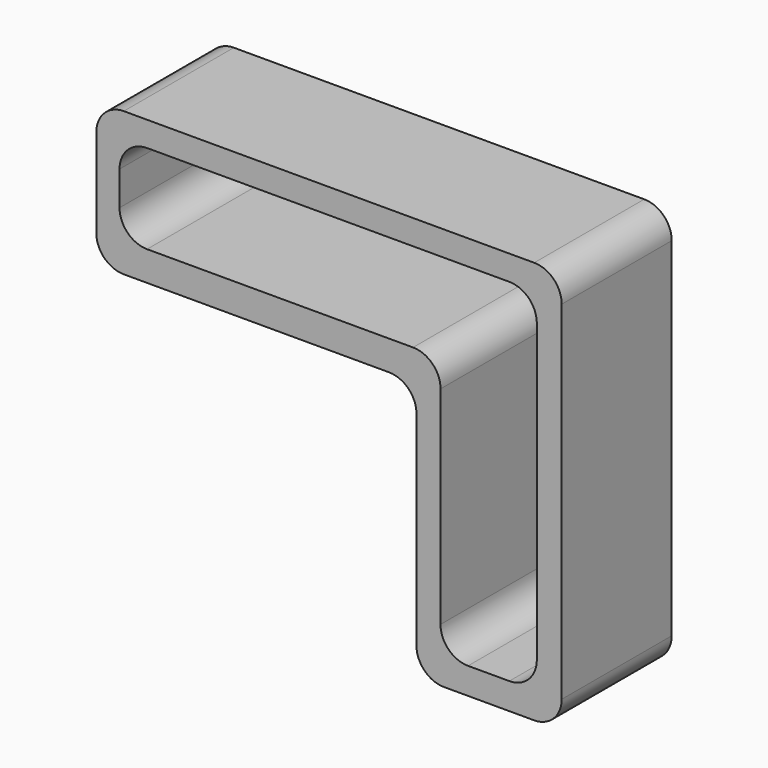
from build123d import *

# Parameters (mm, degrees)
F1_DEPTH = 25.4
F2_R     = 5.08


with BuildPart() as f1:
    # F0 (on Front) → F1 (new body)
    with BuildSketch(Plane.XZ):
        Polygon((-44.20127, 28.79364), (-44.20127, 45.245685), (32.871366, 45.245685), (32.871366, 28.79364), (32.871366, 23.309626), (37.466079, 23.309626), (37.466079, 49.840398), (-48.499554, 49.840398), (-48.499554, 23.309626), (10.638878, 23.309626), (15.085369, 23.309626), (15.085369, 28.79364), align=None)
        Polygon((37.466079, 23.309626), (32.871366, 23.309626), (32.871366, -19.673184), (15.085369, -19.673184), (15.085369, 23.309626), (10.638878, 23.309626), (10.638878, -24.564333), (37.466079, -24.564333), align=None)
    extrude(amount=F1_DEPTH)

    # F2
    f2_edges = [f1.edges().sort_by_distance(p)[0] for p in [
        (-48.499554, -12.7, 23.309626),
        (10.638878, -12.7, 23.309626),
        (10.638878, -12.7, -24.564333),
        (37.466079, -12.7, -24.564333),
        (37.466079, -12.7, 49.840398),
        (-48.499554, -12.7, 49.840398),
        (32.871366, -12.7, -19.673184),
        (15.085369, -12.7, 28.79364),
        (15.085369, -12.7, -19.673184),
        (-44.20127, -12.7, 45.245685),
        (32.871366, -12.7, 45.245685),
        (-44.20127, -12.7, 28.79364),
    ]]
    fillet(f2_edges, radius=F2_R)


solid = f1.part
